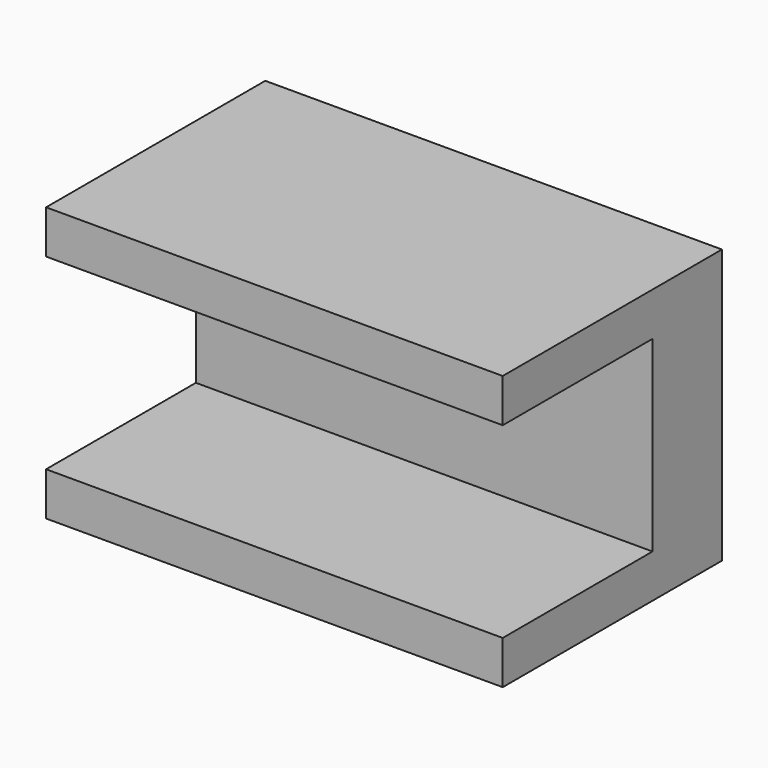
from build123d import *

# Parameters (mm, degrees)
F0_W     = 10
F0_H     = 6
F1_DEPTH = 6
F2_W     = 4.1
F2_H     = 4.1
F3_DEPTH = 10


with BuildPart() as f1:
    # F0 (on Top) → F1 (new body)
    with BuildSketch(Plane.XY):
        with Locations((5, 3)):
            Rectangle(F0_W, F0_H)
    extrude(amount=F1_DEPTH)

    # F2 (on face) → F3 (cut, through all)
    with BuildSketch(Plane.YZ.offset(10)):
        with Locations((2.05, 3)):
            Rectangle(F2_W, F2_H)
    extrude(amount=-F3_DEPTH, mode=Mode.SUBTRACT)


solid = f1.part
